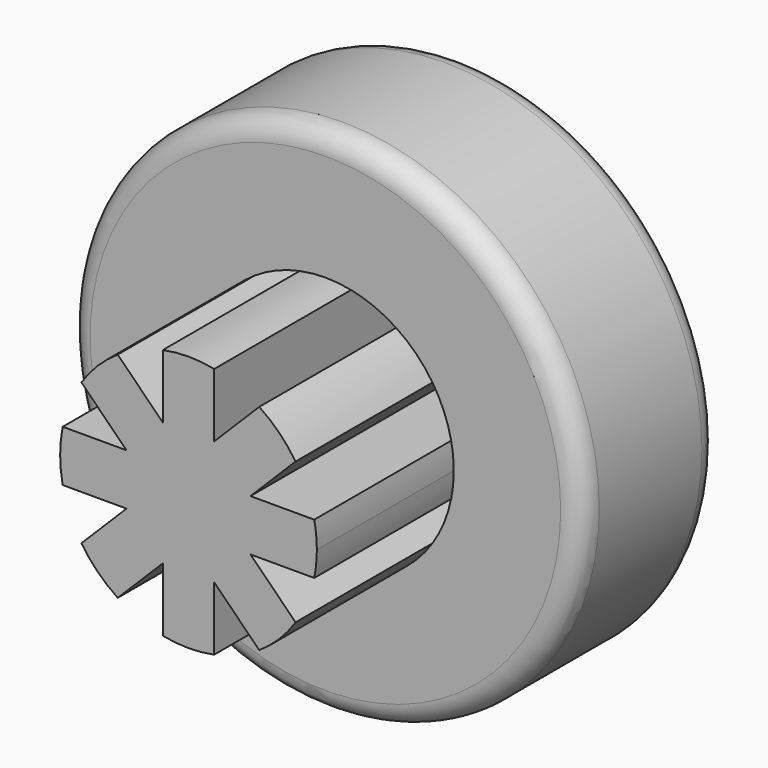
from build123d import *

# Parameters (mm, degrees)
F1_DEPTH = 20
F0_R     = 30
F2_DEPTH = 20
F3_R     = 2.5


with BuildPart() as f1:
    # F0 (on Front) → F1 (new body)
    with BuildSketch(Plane.XZ):
        with BuildLine():
            ThreePointArc((14.6969384567, -3), (14.9240422951, -1.5076344301), (15, 0))
            ThreePointArc((15, 0), (14.9240422951, 1.5076344301), (14.6969384567, 3))
            Line((14.6969384567, 3), (7.2426406871, 3))
            Line((7.2426406871, 3), (12.513625189, 8.2709845019))
            ThreePointArc((12.513625189, 8.2709845019), (10.6066017178, 10.6066017178), (8.2709845019, 12.513625189))
            Line((8.2709845019, 12.513625189), (3, 7.2426406871))
            Line((3, 7.2426406871), (3, 14.6969384567))
            ThreePointArc((3, 14.6969384567), (0, 15), (-3, 14.6969384567))
            Line((-3, 14.6969384567), (-3, 7.2426406871))
            Line((-3, 7.2426406871), (-8.2709845019, 12.513625189))
            ThreePointArc((-8.2709845019, 12.513625189), (-10.6066017178, 10.6066017178), (-12.513625189, 8.2709845019))
            Line((-12.513625189, 8.2709845019), (-7.2426406871, 3))
            Line((-7.2426406871, 3), (-14.6969384567, 3))
            ThreePointArc((-14.6969384567, 3), (-15, 0), (-14.6969384567, -3))
            Line((-14.6969384567, -3), (-7.2426406871, -3))
            Line((-7.2426406871, -3), (-12.513625189, -8.2709845019))
            ThreePointArc((-12.513625189, -8.2709845019), (-10.6066017178, -10.6066017178), (-8.2709845019, -12.513625189))
            Line((-8.2709845019, -12.513625189), (-3, -7.2426406871))
            Line((-3, -7.2426406871), (-3, -14.6969384567))
            ThreePointArc((-3, -14.6969384567), (0, -15), (3, -14.6969384567))
            Line((3, -14.6969384567), (3, -7.2426406871))
            Line((3, -7.2426406871), (8.2709845019, -12.513625189))
            ThreePointArc((8.2709845019, -12.513625189), (10.6066017178, -10.6066017178), (12.513625189, -8.2709845019))
            Line((12.513625189, -8.2709845019), (7.2426406871, -3))
            Line((7.2426406871, -3), (14.6969384567, -3))
        make_face()
    extrude(amount=F1_DEPTH)

    # F0 (on Front) + F1_face (on face) → F2 (join)
    with BuildSketch(Plane.XZ):
        Circle(F0_R)
        with BuildLine():
            ThreePointArc((14.6969384567, 3), (14.9240422951, 1.5076344301), (15, 0))
            ThreePointArc((15, 0), (14.9240422951, -1.5076344301), (14.6969384567, -3))
            ThreePointArc((14.6969384567, -3), (13.8581929877, -5.7402514855), (12.513625189, -8.2709845019))
            ThreePointArc((12.513625189, -8.2709845019), (10.6066017178, -10.6066017178), (8.2709845019, -12.513625189))
            ThreePointArc((8.2709845019, -12.513625189), (5.7402514855, -13.8581929877), (3, -14.6969384567))
            ThreePointArc((3, -14.6969384567), (0, -15), (-3, -14.6969384567))
            ThreePointArc((-3, -14.6969384567), (-5.7402514855, -13.8581929877), (-8.2709845019, -12.513625189))
            ThreePointArc((-8.2709845019, -12.513625189), (-10.6066017178, -10.6066017178), (-12.513625189, -8.2709845019))
            ThreePointArc((-12.513625189, -8.2709845019), (-13.8581929877, -5.7402514855), (-14.6969384567, -3))
            ThreePointArc((-14.6969384567, -3), (-15, 0), (-14.6969384567, 3))
            ThreePointArc((-14.6969384567, 3), (-13.8581929877, 5.7402514855), (-12.513625189, 8.2709845019))
            ThreePointArc((-12.513625189, 8.2709845019), (-10.6066017178, 10.6066017178), (-8.2709845019, 12.513625189))
            ThreePointArc((-8.2709845019, 12.513625189), (-5.7402514855, 13.8581929877), (-3, 14.6969384567))
            ThreePointArc((-3, 14.6969384567), (0, 15), (3, 14.6969384567))
            ThreePointArc((3, 14.6969384567), (5.7402514855, 13.8581929877), (8.2709845019, 12.513625189))
            ThreePointArc((8.2709845019, 12.513625189), (10.6066017178, 10.6066017178), (12.513625189, 8.2709845019))
            ThreePointArc((12.513625189, 8.2709845019), (13.8581929877, 5.7402514855), (14.6969384567, 3))
        make_face(mode=Mode.SUBTRACT)
    with BuildSketch(Plane(origin=(0, 0, 0), x_dir=(1, 0, 0), z_dir=(0, 1, 0))):
        with BuildLine():
            Line((7.2426406871, 3), (12.513625189, 8.2709845019))
            ThreePointArc((12.513625189, 8.2709845019), (10.6066017178, 10.6066017178), (8.2709845019, 12.513625189))
            Line((8.2709845019, 12.513625189), (3, 7.2426406871))
            Line((3, 7.2426406871), (3, 14.6969384567))
            ThreePointArc((3, 14.6969384567), (0, 15), (-3, 14.6969384567))
            Line((-3, 14.6969384567), (-3, 7.2426406871))
            Line((-3, 7.2426406871), (-8.2709845019, 12.513625189))
            ThreePointArc((-8.2709845019, 12.513625189), (-10.6066017178, 10.6066017178), (-12.513625189, 8.2709845019))
            Line((-12.513625189, 8.2709845019), (-7.2426406871, 3))
            Line((-7.2426406871, 3), (-14.6969384567, 3))
            ThreePointArc((-14.6969384567, 3), (-15, 0), (-14.6969384567, -3))
            Line((-14.6969384567, -3), (-7.2426406871, -3))
            Line((-7.2426406871, -3), (-12.513625189, -8.2709845019))
            ThreePointArc((-12.513625189, -8.2709845019), (-10.6066017178, -10.6066017178), (-8.2709845019, -12.513625189))
            Line((-8.2709845019, -12.513625189), (-3, -7.2426406871))
            Line((-3, -7.2426406871), (-3, -14.6969384567))
            ThreePointArc((-3, -14.6969384567), (0, -15), (3, -14.6969384567))
            Line((3, -14.6969384567), (3, -7.2426406871))
            Line((3, -7.2426406871), (8.2709845019, -12.513625189))
            ThreePointArc((8.2709845019, -12.513625189), (10.6066017178, -10.6066017178), (12.513625189, -8.2709845019))
            Line((12.513625189, -8.2709845019), (7.2426406871, -3))
            Line((7.2426406871, -3), (14.6969384567, -3))
            ThreePointArc((14.6969384567, -3), (15, 0), (14.6969384567, 3))
            Line((14.6969384567, 3), (7.2426406871, 3))
        make_face()
    extrude(amount=-F2_DEPTH, dir=(0, -1, 0))

    # F3
    f3_edges = [f1.edges().sort_by_distance(p)[0] for p in [
        (-30, 0, 0),
        (-30, 20, 0),
    ]]
    fillet(f3_edges, radius=F3_R)


solid = f1.part
